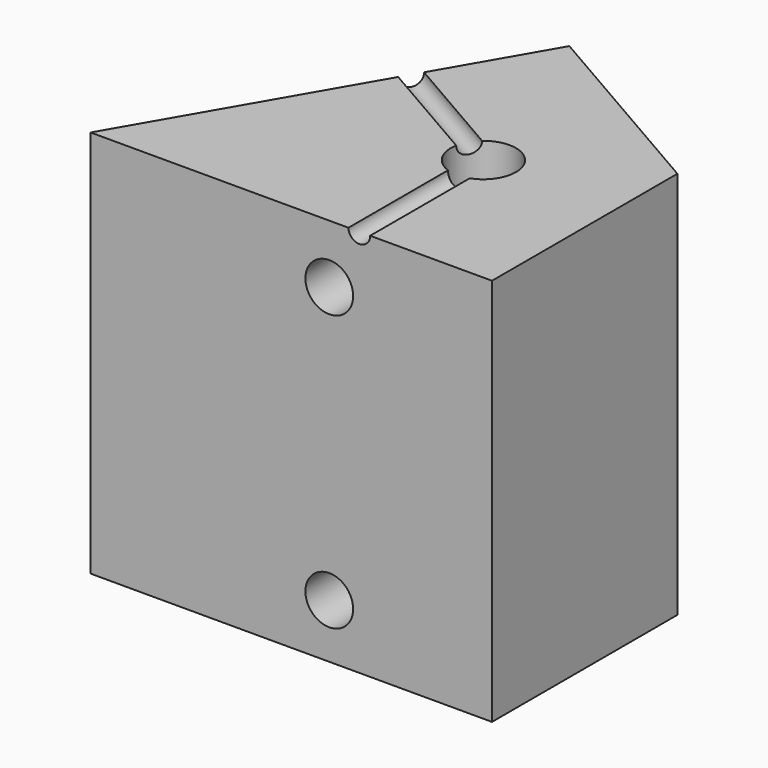
from build123d import *

# Parameters (mm, degrees)
PAD_DEPTH       = 17.9
SKETCH001_R     = 1.5
POCKET_DEPTH    = 17.9
SKETCH003_R     = 0.5
POCKET001_DEPTH = 6
SKETCH004_R     = 0.5
POCKET002_DEPTH = 6
SKETCH005_R     = 1.1
POCKET003_DEPTH = 6.5
SKETCH006_R     = 1.1
POCKET004_DEPTH = 6.5


with BuildPart() as part:
    # Sketch → Pad (new body)
    with BuildSketch(Plane.XY):
        Polygon((0, 0), (18.5, 0), (18.5, 10.68097998), (9.25, 16.02146997), align=None)
    extrude(amount=PAD_DEPTH)

    # Sketch001 → Pocket (cut)
    with BuildSketch(Plane.XY.offset(17.9)):
        with Locations((12.3841632741, 7.15)):
            Circle(SKETCH001_R)
    extrude(amount=-POCKET_DEPTH, mode=Mode.SUBTRACT)

    # Sketch003 → Pocket001 (cut)
    with BuildSketch(Plane.XZ):
        with Locations((12.385, 17.9)):
            Circle(SKETCH003_R)
    extrude(amount=-POCKET001_DEPTH, mode=Mode.SUBTRACT)

    # Sketch004 → Pocket002 (cut)
    with BuildSketch(Plane(origin=(0, 0, 0), x_dir=(-0.5, -0.8660254038, 0), z_dir=(-0.8660254038, 0.5, 0))):
        with Locations((-12.385, 17.9)):
            Circle(SKETCH004_R)
    extrude(amount=-POCKET002_DEPTH, mode=Mode.SUBTRACT)

    # Sketch005 → Pocket003 (cut)
    with BuildSketch(Plane.XZ):
        with Locations((11, 15.2)):
            Circle(SKETCH005_R)
        with Locations((11, 2.5)):
            Circle(SKETCH005_R)
    extrude(amount=-POCKET003_DEPTH, mode=Mode.SUBTRACT)

    # Sketch006 → Pocket004 (cut)
    with BuildSketch(Plane(origin=(0, 0, 0), x_dir=(-0.5, -0.8660254038, 0), z_dir=(-0.8660254038, 0.5, 0))):
        with Locations((-11, 15.2)):
            Circle(SKETCH006_R)
        with Locations((-11, 2.5)):
            Circle(SKETCH006_R)
    extrude(amount=-POCKET004_DEPTH, mode=Mode.SUBTRACT)


solid = part.part
